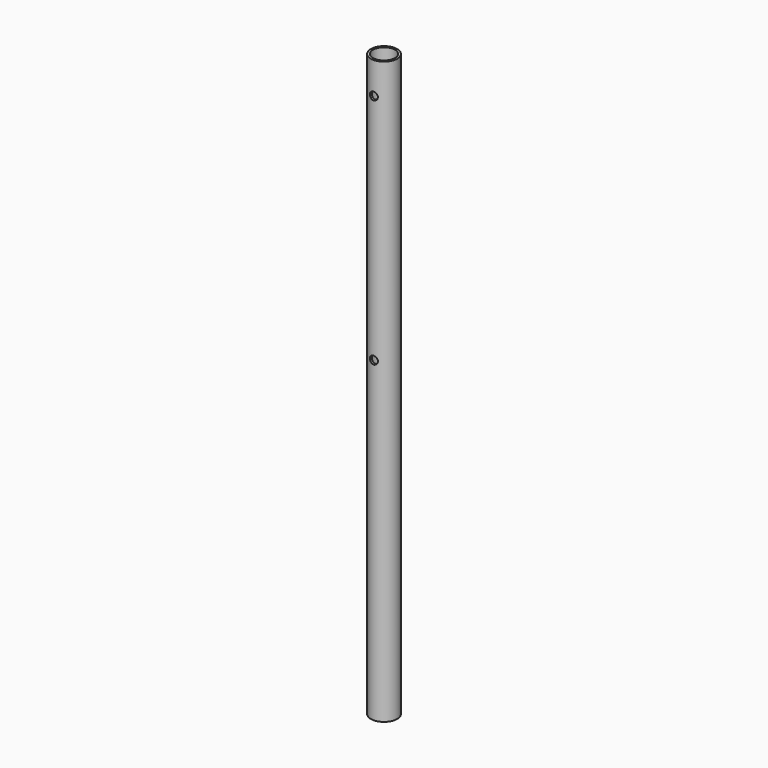
from build123d import *

# Parameters (mm, degrees)
F0_R          = 25
F0_R_2        = 21
F1_DEPTH      = 1100
F2_R          = 7.5
F3_DEPTH      = 25.001
F3_DEPTH_BACK = 25.001


with BuildPart() as f1:
    # F0 (on Top) → F1 (new body)
    with BuildSketch(Plane.XY):
        Circle(F0_R)
        Circle(F0_R_2, mode=Mode.SUBTRACT)
    extrude(amount=F1_DEPTH)

    # F2 (on Front) → F3 (cut, two sides)
    with BuildSketch(Plane.XZ) as f3_sk:
        with Locations((0, 600)):
            Circle(F2_R)
        with Locations((0, 1040)):
            Circle(F2_R)
    extrude(amount=-F3_DEPTH, mode=Mode.SUBTRACT)
    extrude(f3_sk.sketch, amount=F3_DEPTH_BACK, mode=Mode.SUBTRACT)


solid = f1.part
